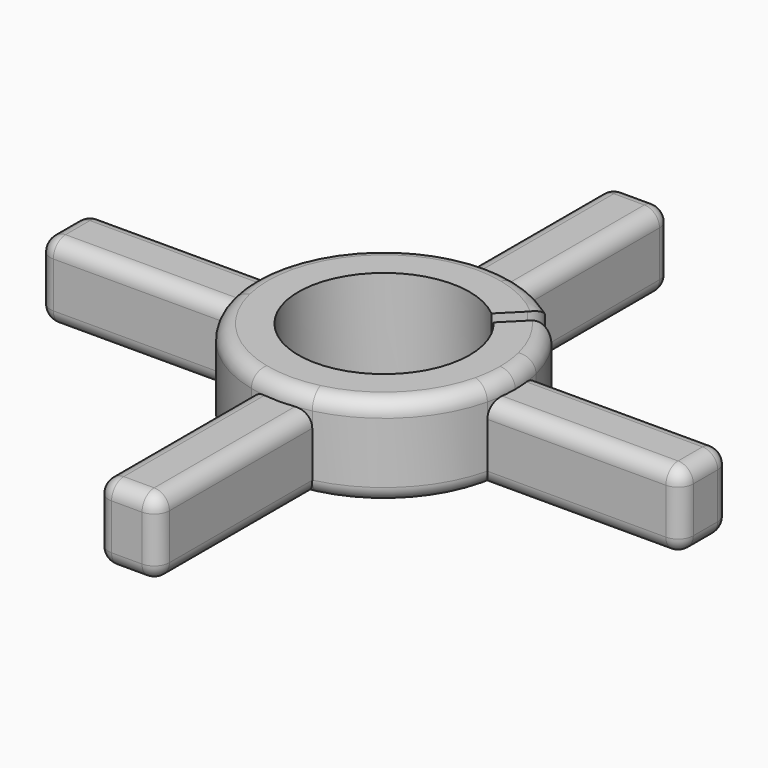
from build123d import *

# Parameters (mm, degrees)
F1_DEPTH = 5
F2_DEPTH = 6
F3_DEPTH = 6
F4_R     = 1
F4_2_R   = 1
F4_3_R   = 1
F4_4_R   = 1
F4_5_R   = 1


with BuildPart() as f1:
    # F0 (on Top) → F1 (new body)
    with BuildSketch(Plane.XY):
        with BuildLine():
            Line((-7.125, 2), (-8.3899120973, 2))
            ThreePointArc((-8.3899120973, 2), (-8.625, 0), (-8.3899120973, -2))
            Line((-8.3899120973, -2), (-7.125, -2))
            Line((-7.125, -2), (-7.125, 2))
        make_face()
        with BuildLine():
            ThreePointArc((-8.3899120973, -2), (-8.625, 0), (-8.3899120973, 2))
            Line((-8.3899120973, 2), (-21.125, 2))
            Line((-21.125, 2), (-21.125, -2))
            Line((-21.125, -2), (-8.3899120973, -2))
        make_face()
    extrude(amount=F1_DEPTH)

    # F0 (on Top) → F3 (cut, through all)
    with BuildSketch(Plane.XY):
        with BuildLine():
            ThreePointArc((5.7349860484, 6.4420928296), (6.0987959877, 6.0987959877), (6.4420928296, 5.7349860484))
            Line((6.4420928296, 5.7349860484), (14.4956890143, 13.7885822331))
            Line((14.4956890143, 13.7885822331), (13.7885822331, 14.4956890143))
            Line((13.7885822331, 14.4956890143), (5.7349860484, 6.4420928296))
        make_face()
        with BuildLine():
            ThreePointArc((3.6081776073, 4.3152843885), (3.9774756442, 3.9774756442), (4.3152843885, 3.6081776073))
            Line((4.3152843885, 3.6081776073), (6.4420928296, 5.7349860484))
            ThreePointArc((6.4420928296, 5.7349860484), (6.0987959877, 6.0987959877), (5.7349860484, 6.4420928296))
            Line((5.7349860484, 6.4420928296), (3.6081776073, 4.3152843885))
        make_face()
        with BuildLine():
            Line((0.3535533906, -0.3535533906), (4.3152843885, 3.6081776073))
            ThreePointArc((4.3152843885, 3.6081776073), (3.9774756442, 3.9774756442), (3.6081776073, 4.3152843885))
            Line((3.6081776073, 4.3152843885), (-0.3535533906, 0.3535533906))
            Line((-0.3535533906, 0.3535533906), (0.3535533906, -0.3535533906))
        make_face()
    extrude(amount=F3_DEPTH, mode=Mode.SUBTRACT)

    # F4#4
    f4_4_edges = [f1.edges().sort_by_distance(p)[0] for p in [
        (-21.125, 2, 2.5),
        (-21.125, -2, 2.5),
        (-21.125, 0, 0),
        (-21.125, 0, 5),
        (-7.125, 0, 5),
        (-14.125, 2, 5),
        (-14.125, -2, 5),
        (-7.125, -2, 2.5),
        (-14.125, -2, 0),
        (-7.125, 2, 2.5),
        (-14.125, 2, 0),
    ]]
    fillet(f4_4_edges, radius=F4_4_R)


with BuildPart() as f1b:
    # F0 (on Top) → F1, piece 2 (new body)
    with BuildSketch(Plane.XY):
        with BuildLine():
            Line((2, 7.125), (2, 8.3899120973))
            ThreePointArc((2, 8.3899120973), (0, 8.625), (-2, 8.3899120973))
            Line((-2, 8.3899120973), (-2, 7.125))
            Line((-2, 7.125), (2, 7.125))
        make_face()
        with BuildLine():
            ThreePointArc((-2, 8.3899120973), (0, 8.625), (2, 8.3899120973))
            Line((2, 8.3899120973), (2, 21.125))
            Line((2, 21.125), (-2, 21.125))
            Line((-2, 21.125), (-2, 8.3899120973))
        make_face()
    extrude(amount=F1_DEPTH)

    # F4#3
    f4_3_edges = [f1b.edges().sort_by_distance(p)[0] for p in [
        (-2, 21.125, 2.5),
        (-2, 7.125, 2.5),
        (-2, 14.125, 0),
        (-2, 14.125, 5),
        (0, 7.125, 5),
        (2, 14.125, 5),
        (0, 21.125, 5),
        (2, 21.125, 2.5),
        (0, 21.125, 0),
        (2, 14.125, 0),
    ]]
    fillet(f4_3_edges, radius=F4_3_R)


with BuildPart() as f1c:
    # F0 (on Top) → F1, piece 3 (new body)
    with BuildSketch(Plane.XY):
        with BuildLine():
            Line((2, -21.125), (2, -8.3899120973))
            ThreePointArc((2, -8.3899120973), (0, -8.625), (-2, -8.3899120973))
            Line((-2, -8.3899120973), (-2, -21.125))
            Line((-2, -21.125), (2, -21.125))
        make_face()
        with BuildLine():
            ThreePointArc((-2, -8.3899120973), (0, -8.625), (2, -8.3899120973))
            Line((2, -8.3899120973), (2, -7.125))
            Line((2, -7.125), (-2, -7.125))
            Line((-2, -7.125), (-2, -8.3899120973))
        make_face()
    extrude(amount=F1_DEPTH)

    # F4#2
    f4_2_edges = [f1c.edges().sort_by_distance(p)[0] for p in [
        (2, -21.125, 2.5),
        (2, -7.125, 2.5),
        (2, -14.125, 0),
        (2, -14.125, 5),
        (-2, -7.125, 2.5),
        (-2, -21.125, 2.5),
        (-2, -14.125, 0),
        (-2, -14.125, 5),
        (0, -21.125, 0),
        (0, -21.125, 5),
    ]]
    fillet(f4_2_edges, radius=F4_2_R)


with BuildPart() as f1d:
    # F0 (on Top) → F1, piece 4 (new body)
    with BuildSketch(Plane.XY):
        with BuildLine():
            Line((21.125, 2), (8.3899120973, 2))
            ThreePointArc((8.3899120973, 2), (8.5660264078, 1.0068845915), (8.625, 0))
            ThreePointArc((8.625, 0), (8.5660264078, -1.0068845915), (8.3899120973, -2))
            Line((8.3899120973, -2), (21.125, -2))
            Line((21.125, -2), (21.125, 2))
        make_face()
        with BuildLine():
            ThreePointArc((8.625, 0), (8.5660264078, 1.0068845915), (8.3899120973, 2))
            Line((8.3899120973, 2), (7.125, 2))
            Line((7.125, 2), (7.125, -2))
            Line((7.125, -2), (8.3899120973, -2))
            ThreePointArc((8.3899120973, -2), (8.5660264078, -1.0068845915), (8.625, 0))
        make_face()
    extrude(amount=F1_DEPTH)

    # F4#5
    f4_5_edges = [f1d.edges().sort_by_distance(p)[0] for p in [
        (7.125, -2, 2.5),
        (21.125, -2, 2.5),
        (14.125, -2, 0),
        (14.125, -2, 5),
        (21.125, 2, 2.5),
        (21.125, 0, 0),
        (21.125, 0, 5),
        (7.125, 2, 2.5),
        (14.125, 2, 0),
        (14.125, 2, 5),
    ]]
    fillet(f4_5_edges, radius=F4_5_R)


with BuildPart() as f2:
    # F0 (on Top) → F2 (new body)
    with BuildSketch(Plane.XY):
        with BuildLine():
            ThreePointArc((4.3152843885, 3.6081776073), (5.2874426562, 1.9192642229), (5.625, 0))
            ThreePointArc((5.625, 0), (-5.0959113042, -2.3816618104), (3.6081776073, 4.3152843885))
            Line((3.6081776073, 4.3152843885), (5.7349860484, 6.4420928296))
            ThreePointArc((5.7349860484, 6.4420928296), (3.9882329755, 7.6475239609), (2, 8.3899120973))
            Line((2, 8.3899120973), (2, 7.125))
            Line((2, 7.125), (-2, 7.125))
            Line((-2, 7.125), (-2, 8.3899120973))
            ThreePointArc((-2, 8.3899120973), (-6.0987959877, 6.0987959877), (-8.3899120973, 2))
            Line((-8.3899120973, 2), (-7.125, 2))
            Line((-7.125, 2), (-7.125, -2))
            Line((-7.125, -2), (-8.3899120973, -2))
            ThreePointArc((-8.3899120973, -2), (-6.0987959877, -6.0987959877), (-2, -8.3899120973))
            Line((-2, -8.3899120973), (-2, -7.125))
            Line((-2, -7.125), (2, -7.125))
            Line((2, -7.125), (2, -8.3899120973))
            ThreePointArc((2, -8.3899120973), (6.0987959877, -6.0987959877), (8.3899120973, -2))
            Line((8.3899120973, -2), (7.125, -2))
            Line((7.125, -2), (7.125, 2))
            Line((7.125, 2), (8.3899120973, 2))
            ThreePointArc((8.3899120973, 2), (7.6475239609, 3.9882329755), (6.4420928296, 5.7349860484))
            Line((6.4420928296, 5.7349860484), (4.3152843885, 3.6081776073))
        make_face()
        with BuildLine():
            ThreePointArc((-2, -8.3899120973), (0, -8.625), (2, -8.3899120973))
            Line((2, -8.3899120973), (2, -7.125))
            Line((2, -7.125), (-2, -7.125))
            Line((-2, -7.125), (-2, -8.3899120973))
        make_face()
        with BuildLine():
            ThreePointArc((8.625, 0), (8.5660264078, 1.0068845915), (8.3899120973, 2))
            Line((8.3899120973, 2), (7.125, 2))
            Line((7.125, 2), (7.125, -2))
            Line((7.125, -2), (8.3899120973, -2))
            ThreePointArc((8.3899120973, -2), (8.5660264078, -1.0068845915), (8.625, 0))
        make_face()
        with BuildLine():
            Line((2, 7.125), (2, 8.3899120973))
            ThreePointArc((2, 8.3899120973), (0, 8.625), (-2, 8.3899120973))
            Line((-2, 8.3899120973), (-2, 7.125))
            Line((-2, 7.125), (2, 7.125))
        make_face()
        with BuildLine():
            Line((-7.125, 2), (-8.3899120973, 2))
            ThreePointArc((-8.3899120973, 2), (-8.625, 0), (-8.3899120973, -2))
            Line((-8.3899120973, -2), (-7.125, -2))
            Line((-7.125, -2), (-7.125, 2))
        make_face()
    extrude(amount=F2_DEPTH)

    # F4
    f4_edges = [f2.edges().sort_by_distance(p)[0] for p in [
        (5.734986, 6.442093, 3),
        (6.442093, 5.734986, 3),
        (-6.098796, -6.098796, 0),
        (-6.098796, -6.098796, 6),
    ]]
    fillet(f4_edges, radius=F4_R)


solid = Compound([f1.part, f1b.part, f1c.part, f1d.part, f2.part])
